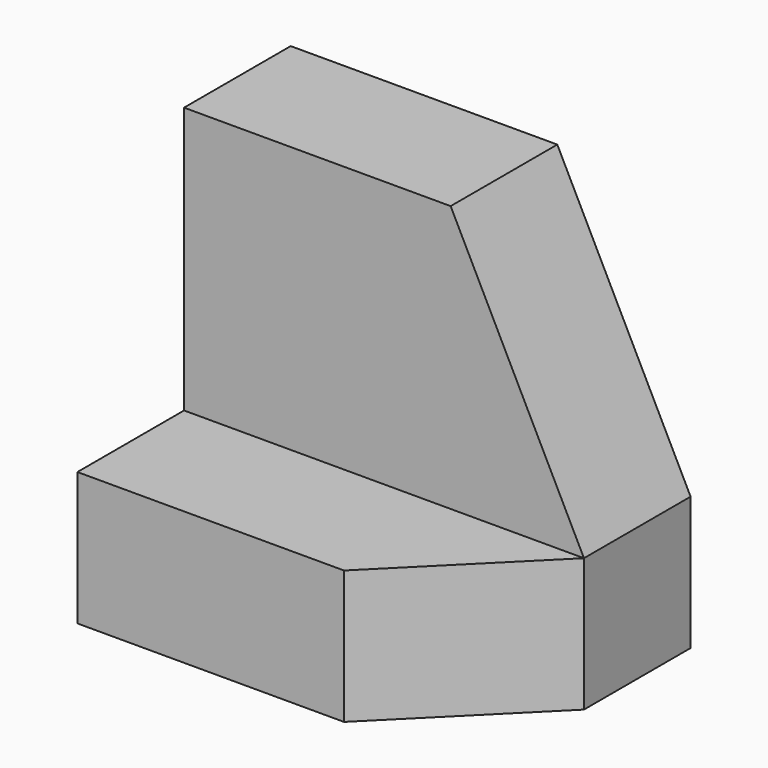
from build123d import *

# Parameters (mm, degrees)
F0_W     = 38.1
F0_H     = 38.1
F1_DEPTH = 25.4
F2_W     = 12.7
F2_H     = 25.4
F3_DEPTH = 38.1
F5_DEPTH = 25.4
F7_DEPTH = 25.4


with BuildPart() as f1:
    # F0 (on Front) → F1 (new body)
    with BuildSketch(Plane.XZ):
        with Locations((19.05, 19.05)):
            Rectangle(F0_W, F0_H)
    extrude(amount=F1_DEPTH)

    # F2 (on face) → F3 (cut)
    with BuildSketch(Plane.YZ.offset(38.1)):
        with Locations((-19.05, 25.4)):
            Rectangle(F2_W, F2_H)
    extrude(amount=-F3_DEPTH, mode=Mode.SUBTRACT)

    # F4 (on face) → F5 (cut)
    with BuildSketch(Plane.XY.offset(12.7)):
        Polygon((25.4, -25.4), (38.1, -25.4), (38.1, -12.7), align=None)
    extrude(amount=-F5_DEPTH, mode=Mode.SUBTRACT)

    # F6 (on face) → F7 (cut)
    with BuildSketch(Plane.XZ.offset(12.7)):
        Polygon((38.1, 12.7), (38.1, 38.1), (25.4, 38.1), align=None)
    extrude(amount=-F7_DEPTH, mode=Mode.SUBTRACT)


solid = f1.part
